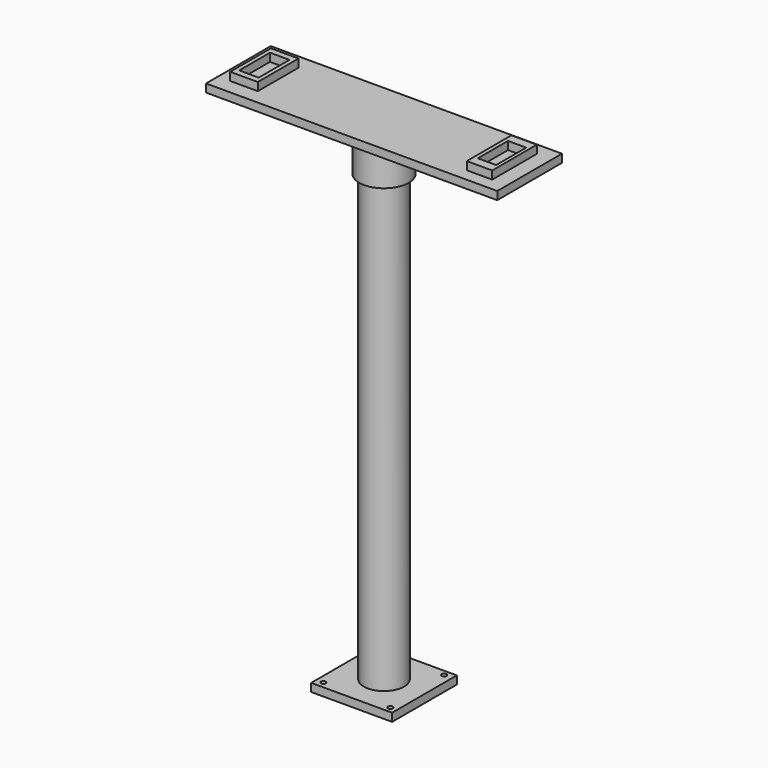
from build123d import *

# Parameters (mm, degrees)
F0_W      = 254
F0_H      = 254
F0_R      = 7.765626
F0_R_2    = 62.44742
F1_DEPTH  = 25.4
F2_R      = 63.5
F3_DEPTH  = 1524
F4_R      = 63.5
F5_DEPTH  = 25.4
F4_W      = 914.4
F4_H      = 254
F6_DEPTH  = 25.4
F8_W      = 79.844535
F8_H      = 175.243094
F8_W_2    = 57.27005
F8_H_2    = 118.286156
F9_W      = 79.844535
F9_H      = 175.243094
F9_W_2    = 57.27005
F9_H_2    = 118.286156
F9_W_3    = 45.544207
F9_H_3    = 10.561109
F10_DEPTH = 25.4
F11_W     = 86.844683
F11_H     = 159.707428
F11_W_2   = 61.185301
F11_H_2   = 120.797262
F12_DEPTH = 25.4
F13_R     = 77.71217
F14_DEPTH = 127


with BuildPart() as f1:
    # F0 (on Top) → F1 (new body)
    with BuildSketch(Plane.XY):
        Rectangle(F0_W, F0_H)
        with Locations((-104.70859, -106.652051)):
            Circle(F0_R, mode=Mode.SUBTRACT)
        with Locations((106.550232, -108.094081)):
            Circle(F0_R, mode=Mode.SUBTRACT)
        with Locations((-106.150627, 106.76983)):
            Circle(F0_R, mode=Mode.SUBTRACT)
        Circle(F0_R_2, mode=Mode.SUBTRACT)
        with Locations((101.503089, 108.93289)):
            Circle(F0_R, mode=Mode.SUBTRACT)
        Circle(F0_R_2)
    extrude(amount=F1_DEPTH)

    # F2 (on face) → F3 (join)
    with BuildSketch(Plane.XY.offset(25.4)):
        Circle(F2_R)
    extrude(amount=F3_DEPTH)

    # F4 (on face) → F5 (join)
    with BuildSketch(Plane.XY.offset(1549.4)):
        Circle(F4_R)
    extrude(amount=F5_DEPTH)

    # F4 (on face) → F6 (join)
    with BuildSketch(Plane.XY.offset(1549.4)):
        Rectangle(F4_W, F4_H)
        Circle(F4_R, mode=Mode.SUBTRACT)
    extrude(amount=F6_DEPTH)

    # F8 (on face) + F9 (on face) → F10 (join)
    with BuildSketch(Plane.XY.offset(1574.8)):
        with Locations((369.877309, 0)):
            Rectangle(F8_W, F8_H)
        with Locations((370.58115, 0)):
            Rectangle(F8_W_2, F8_H_2, mode=Mode.SUBTRACT)
    with BuildSketch(Plane.XY.offset(1574.8)):
        with Locations((369.877309, 0)):
            Rectangle(F9_W, F9_H)
        with Locations((370.58115, 0)):
            Rectangle(F9_W_2, F9_H_2, mode=Mode.SUBTRACT)
        with Locations((371.858775, 73.884032)):
            Rectangle(F9_W_3, F9_H_3, mode=Mode.SUBTRACT)
    extrude(amount=F10_DEPTH)

    # F11 (on face) → F12 (join)
    with BuildSketch(Plane.XY.offset(1574.8)):
        with Locations((-375.767172, 0)):
            Rectangle(F11_W, F11_H)
        with Locations((-375.767172, 0)):
            Rectangle(F11_W_2, F11_H_2, mode=Mode.SUBTRACT)
    extrude(amount=F12_DEPTH)

    # F13 (on face) → F14 (join)
    with BuildSketch(Plane.XY.offset(1549.4)):
        Circle(F13_R)
    extrude(amount=-F14_DEPTH)


solid = f1.part
